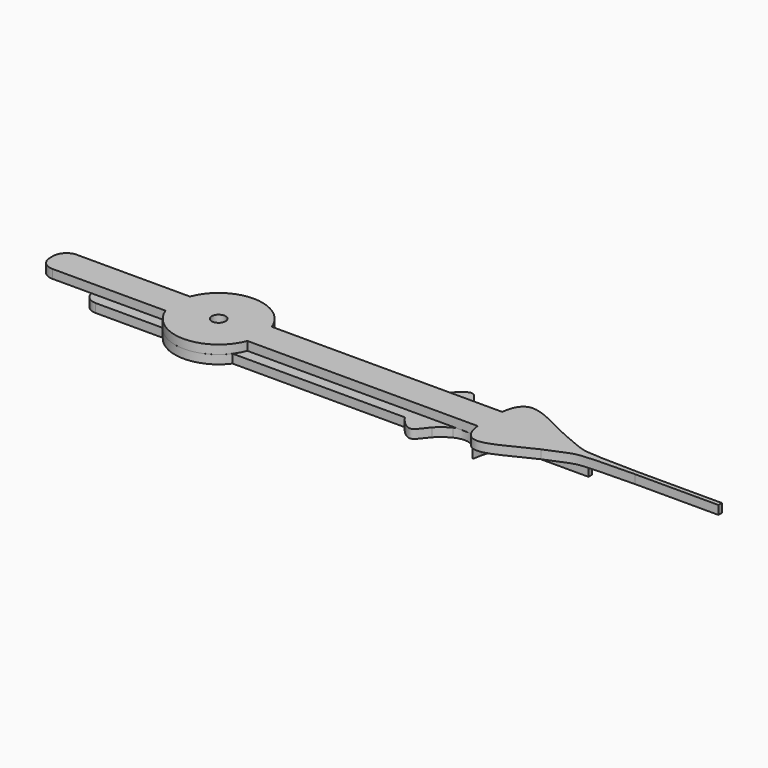
from build123d import *

# Parameters (mm, degrees)
F0_R     = 1.5875
F1_DEPTH = 2
F2_R     = 1.5875
F3_DEPTH = 2
F4_R     = 3
F4_2_R   = 3


with BuildPart() as f1:
    # F0 (on Top) → F1 (new body)
    with BuildSketch(Plane.XY):
        with BuildLine():
            ThreePointArc((-9.3674969976, -3.5), (-10, 0), (-9.3674969976, 3.5))
            Line((-9.3674969976, 3.5), (-38.25, 3.5))
            Line((-38.25, 3.5), (-38.25, -3.5))
            Line((-38.25, -3.5), (-9.3674969976, -3.5))
        make_face()
        with BuildLine():
            Line((-9.3674969976, 3.5), (9.3674969976, 3.5))
            ThreePointArc((9.3674969976, 3.5), (0, 10), (-9.3674969976, 3.5))
        make_face()
        with BuildLine():
            Line((62.0709539045, 3.5), (76.5, 3.5))
            add(Edge.make_bspline(
                [(76.5, 3.5), (71.9907153616, 5.4354000871), (64.55282786, 10.6078306891), (62.2970592122, 5.6150011273), (62.0709539045, 3.5)],
                knots=[0, 0, 0, 0, 0.5556190741, 0.8480780717, 0.8480780717, 0.8480780717, 0.8480780717], degree=3))
        make_face()
        with BuildLine():
            Line((9.3674969976, -3.5), (-9.3674969976, -3.5))
            ThreePointArc((-9.3674969976, -3.5), (0, -10), (9.3674969976, -3.5))
        make_face()
        with BuildLine():
            Line((76.5, -3.5), (62.0709539045, -3.5))
            add(Edge.make_bspline(
                [(76.5, -3.5), (71.9907153616, -5.4354000871), (64.55282786, -10.6078306891), (62.2970592122, -5.6150011273), (62.0709539045, -3.5)],
                knots=[0, 0, 0, 0, 0.5556190741, 0.8480780717, 0.8480780717, 0.8480780717, 0.8480780717], degree=3))
        make_face()
        with BuildLine():
            add(Edge.make_bspline(
                [(62.0709539045, 3.5), (61.9535003312, 2.401333), (61.9849445935, 1.196556193), (62.15625, 0)],
                knots=[0.8480780717, 0.8480780717, 0.8480780717, 0.8480780717, 1, 1, 1, 1], degree=3))
            Line((62.0709539045, 3.5), (9.3674969976, 3.5))
            ThreePointArc((9.3674969976, 3.5), (9.8406038935, 1.7783461452), (10, 0))
            ThreePointArc((10, 0), (9.8406038935, -1.7783461452), (9.3674969976, -3.5))
            Line((9.3674969976, -3.5), (62.0709539045, -3.5))
            add(Edge.make_bspline(
                [(62.0709539045, -3.5), (61.9535003312, -2.401333), (61.9849445935, -1.196556193), (62.15625, 0)],
                knots=[0.8480780717, 0.8480780717, 0.8480780717, 0.8480780717, 1, 1, 1, 1], degree=3))
        make_face()
        with BuildLine():
            ThreePointArc((10, 0), (9.8406038935, 1.7783461452), (9.3674969976, 3.5))
            Line((9.3674969976, 3.5), (-9.3674969976, 3.5))
            ThreePointArc((-9.3674969976, 3.5), (-10, 0), (-9.3674969976, -3.5))
            Line((-9.3674969976, -3.5), (9.3674969976, -3.5))
            ThreePointArc((9.3674969976, -3.5), (9.8406038935, -1.7783461452), (10, 0))
        make_face()
        Circle(F0_R, mode=Mode.SUBTRACT)
        with BuildLine():
            add(Edge.make_bspline(
                [(76.5, 3.5), (81.2292632272, 1.3920385639), (83.5245438479, 0.7969108606), (86.4633302777, 0.6546642008), (95.625, 0.5)],
                knots=[0, 0, 0, 0, 0.4354164629, 1, 1, 1, 1], degree=3))
            Line((76.5, 3.5), (62.0709539045, 3.5))
            add(Edge.make_bspline(
                [(62.0709539045, 3.5), (61.9535003312, 2.401333), (61.9849445935, 1.196556193), (62.15625, 0)],
                knots=[0.8480780717, 0.8480780717, 0.8480780717, 0.8480780717, 1, 1, 1, 1], degree=3))
            add(Edge.make_bspline(
                [(62.0709539045, -3.5), (61.9535003312, -2.401333), (61.9849445935, -1.196556193), (62.15625, 0)],
                knots=[0.8480780717, 0.8480780717, 0.8480780717, 0.8480780717, 1, 1, 1, 1], degree=3))
            Line((62.0709539045, -3.5), (76.5, -3.5))
            add(Edge.make_bspline(
                [(76.5, -3.5), (81.2292632272, -1.3920385639), (83.5245438479, -0.7969108606), (86.4633302777, -0.6546642008), (95.625, -0.5)],
                knots=[0, 0, 0, 0, 0.4354164629, 1, 1, 1, 1], degree=3))
            Line((95.625, -0.5), (114.75, -0.5))
            Line((114.75, -0.5), (114.75, 0.5))
            Line((114.75, 0.5), (95.625, 0.5))
        make_face()
    extrude(amount=F1_DEPTH)

    # F4#2
    f4_2_edges = [f1.edges().sort_by_distance(p)[0] for p in [
        (-38.25, 3.5, 1),
        (-38.25, -3.5, 1),
    ]]
    fillet(f4_2_edges, radius=F4_2_R)


with BuildPart() as f3:
    # F2 (on Top) → F3 (new body)
    with BuildSketch(Plane.XY):
        with BuildLine():
            Line((-8, 6), (-26.33333333, 6))
            Line((-26.33333333, 6), (-26.33333333, -6))
            Line((-26.33333333, -6), (-8, -6))
            ThreePointArc((-8, -6), (-10, 0), (-8, 6))
        make_face()
        with BuildLine():
            ThreePointArc((8, 6), (0, 10), (-8, 6))
            Line((-8, 6), (8, 6))
        make_face()
        with BuildLine():
            Line((8, -6), (-8, -6))
            ThreePointArc((-8, -6), (0, -10), (8, -6))
        make_face()
        with BuildLine():
            Line((53.6581738244, 6), (47.4167542526, 6))
            add(Edge.make_bspline(
                [(47.4167542526, 6), (46.3220957553, 4.3280086445), (45.5684344657, 2.1206918096), (46.0416666667, 0)],
                knots=[0.726906329, 0.726906329, 0.726906329, 0.726906329, 1, 1, 1, 1], degree=3))
            add(Edge.make_bspline(
                [(47.4167542526, -6), (46.3220957553, -4.3280086445), (45.5684344657, -2.1206918096), (46.0416666667, 0)],
                knots=[0.726906329, 0.726906329, 0.726906329, 0.726906329, 1, 1, 1, 1], degree=3))
            Line((47.4167542526, -6), (53.6581738244, -6))
            add(Edge.make_bspline(
                [(56.6666666667, -3.747044364), (55.2992674084, -4.4409490289), (54.3604326541, -5.2428049781), (53.6581738244, -6)],
                knots=[0, 0, 0, 0, 0.1542850544, 0.1542850544, 0.1542850544, 0.1542850544], degree=3))
            add(Edge.make_bspline(
                [(56.6666666667, -3.747044364), (60.0277227864, -2.2489301029), (62.0161168237, -4.2916810168), (63.1679295713, -6)],
                knots=[0, 0, 0, 0, 0.3094476025, 0.3094476025, 0.3094476025, 0.3094476025], degree=3))
            Line((63.1679295713, -6), (64.907909688, -6))
            add(Edge.make_bspline(
                [(64.907909688, -6), (65.3495372223, -3.9292189456), (66.4917594583, -0.8436001546), (70.8333333333, -0.5)],
                knots=[0.6644360976, 0.6644360976, 0.6644360976, 0.6644360976, 1, 1, 1, 1], degree=3))
            Line((70.8333333333, -0.5), (85, -0.5))
            Line((85, -0.5), (85, 0.5))
            Line((85, 0.5), (70.8333333333, 0.5))
            add(Edge.make_bspline(
                [(64.907909688, 6), (65.3495372223, 3.9292189456), (66.4917594583, 0.8436001546), (70.8333333333, 0.5)],
                knots=[0.6644360976, 0.6644360976, 0.6644360976, 0.6644360976, 1, 1, 1, 1], degree=3))
            Line((64.907909688, 6), (63.1679295713, 6))
            add(Edge.make_bspline(
                [(56.6666666667, 3.747044364), (60.0277227864, 2.2489301029), (62.0161168237, 4.2916810168), (63.1679295713, 6)],
                knots=[0, 0, 0, 0, 0.3094476025, 0.3094476025, 0.3094476025, 0.3094476025], degree=3))
            add(Edge.make_bspline(
                [(56.6666666667, 3.747044364), (55.2992674084, 4.4409490289), (54.3604326541, 5.2428049781), (53.6581738244, 6)],
                knots=[0, 0, 0, 0, 0.1542850544, 0.1542850544, 0.1542850544, 0.1542850544], degree=3))
        make_face()
        with BuildLine():
            Line((47.4167542526, 6), (8, 6))
            ThreePointArc((8, 6), (9.4868329805, 3.1622776602), (10, 0))
            ThreePointArc((10, 0), (9.4868329805, -3.1622776602), (8, -6))
            Line((8, -6), (47.4167542526, -6))
            add(Edge.make_bspline(
                [(47.4167542526, -6), (46.3220957553, -4.3280086445), (45.5684344657, -2.1206918096), (46.0416666667, 0)],
                knots=[0.726906329, 0.726906329, 0.726906329, 0.726906329, 1, 1, 1, 1], degree=3))
            add(Edge.make_bspline(
                [(47.4167542526, 6), (46.3220957553, 4.3280086445), (45.5684344657, 2.1206918096), (46.0416666667, 0)],
                knots=[0.726906329, 0.726906329, 0.726906329, 0.726906329, 1, 1, 1, 1], degree=3))
        make_face()
        with BuildLine():
            Line((8, 6), (-8, 6))
            ThreePointArc((-8, 6), (-10, 0), (-8, -6))
            Line((-8, -6), (8, -6))
            ThreePointArc((8, -6), (9.4868329805, -3.1622776602), (10, 0))
            ThreePointArc((10, 0), (9.4868329805, 3.1622776602), (8, 6))
        make_face()
        Circle(F2_R, mode=Mode.SUBTRACT)
        with BuildLine():
            Line((53.6581738244, 6), (47.4167542526, 6))
            add(Edge.make_bspline(
                [(47.4167542526, 6), (46.3220957553, 4.3280086445), (45.5684344657, 2.1206918096), (46.0416666667, 0)],
                knots=[0.726906329, 0.726906329, 0.726906329, 0.726906329, 1, 1, 1, 1], degree=3))
            add(Edge.make_bspline(
                [(47.4167542526, -6), (46.3220957553, -4.3280086445), (45.5684344657, -2.1206918096), (46.0416666667, 0)],
                knots=[0.726906329, 0.726906329, 0.726906329, 0.726906329, 1, 1, 1, 1], degree=3))
            Line((47.4167542526, -6), (53.6581738244, -6))
            add(Edge.make_bspline(
                [(56.6666666667, -3.747044364), (55.2992674084, -4.4409490289), (54.3604326541, -5.2428049781), (53.6581738244, -6)],
                knots=[0, 0, 0, 0, 0.1542850544, 0.1542850544, 0.1542850544, 0.1542850544], degree=3))
            add(Edge.make_bspline(
                [(56.6666666667, -3.747044364), (60.0277227864, -2.2489301029), (62.0161168237, -4.2916810168), (63.1679295713, -6)],
                knots=[0, 0, 0, 0, 0.3094476025, 0.3094476025, 0.3094476025, 0.3094476025], degree=3))
            Line((63.1679295713, -6), (64.907909688, -6))
            add(Edge.make_bspline(
                [(64.907909688, -6), (65.3495372223, -3.9292189456), (66.4917594583, -0.8436001546), (70.8333333333, -0.5)],
                knots=[0.6644360976, 0.6644360976, 0.6644360976, 0.6644360976, 1, 1, 1, 1], degree=3))
            Line((70.8333333333, -0.5), (85, -0.5))
            Line((85, -0.5), (85, 0.5))
            Line((85, 0.5), (70.8333333333, 0.5))
            add(Edge.make_bspline(
                [(64.907909688, 6), (65.3495372223, 3.9292189456), (66.4917594583, 0.8436001546), (70.8333333333, 0.5)],
                knots=[0.6644360976, 0.6644360976, 0.6644360976, 0.6644360976, 1, 1, 1, 1], degree=3))
            Line((64.907909688, 6), (63.1679295713, 6))
            add(Edge.make_bspline(
                [(56.6666666667, 3.747044364), (60.0277227864, 2.2489301029), (62.0161168237, 4.2916810168), (63.1679295713, 6)],
                knots=[0, 0, 0, 0, 0.3094476025, 0.3094476025, 0.3094476025, 0.3094476025], degree=3))
            add(Edge.make_bspline(
                [(56.6666666667, 3.747044364), (55.2992674084, 4.4409490289), (54.3604326541, 5.2428049781), (53.6581738244, 6)],
                knots=[0, 0, 0, 0, 0.1542850544, 0.1542850544, 0.1542850544, 0.1542850544], degree=3))
        make_face()
        with BuildLine():
            Line((64.907909688, -6), (63.1679295713, -6))
            add(Edge.make_bspline(
                [(63.1679295713, -6), (63.8278590037, -6.9787788677), (64.5993236597, -8.718696784), (64.6740549365, -7.0965393941), (64.907909688, -6)],
                knots=[0.3094476025, 0.3094476025, 0.3094476025, 0.3094476025, 0.4867451547, 0.6644360976, 0.6644360976, 0.6644360976, 0.6644360976], degree=3))
        make_face()
        with BuildLine():
            add(Edge.make_bspline(
                [(63.1679295713, 6), (63.8278590037, 6.9787788677), (64.5993236597, 8.718696784), (64.6740549365, 7.0965393941), (64.907909688, 6)],
                knots=[0.3094476025, 0.3094476025, 0.3094476025, 0.3094476025, 0.4867451547, 0.6644360976, 0.6644360976, 0.6644360976, 0.6644360976], degree=3))
            Line((63.1679295713, 6), (64.907909688, 6))
        make_face()
        with BuildLine():
            add(Edge.make_bspline(
                [(53.6581738244, 6), (52.2194091826, 7.5513160935), (51.4119093355, 10.0220105563), (48.4450081755, 7.5705644038), (47.4167542526, 6)],
                knots=[0.1542850544, 0.1542850544, 0.1542850544, 0.1542850544, 0.4703791662, 0.726906329, 0.726906329, 0.726906329, 0.726906329], degree=3))
            Line((47.4167542526, 6), (53.6581738244, 6))
        make_face()
        with BuildLine():
            Line((53.6581738244, -6), (47.4167542526, -6))
            add(Edge.make_bspline(
                [(53.6581738244, -6), (52.2194091826, -7.5513160935), (51.4119093355, -10.0220105563), (48.4450081755, -7.5705644038), (47.4167542526, -6)],
                knots=[0.1542850544, 0.1542850544, 0.1542850544, 0.1542850544, 0.4703791662, 0.726906329, 0.726906329, 0.726906329, 0.726906329], degree=3))
        make_face()
    extrude(amount=-F3_DEPTH)

    # F4
    f4_edges = [f3.edges().sort_by_distance(p)[0] for p in [
        (-26.333333, 6, -1),
        (-26.333333, -6, -1),
    ]]
    fillet(f4_edges, radius=F4_R)


solid = Compound([f1.part, f3.part])
